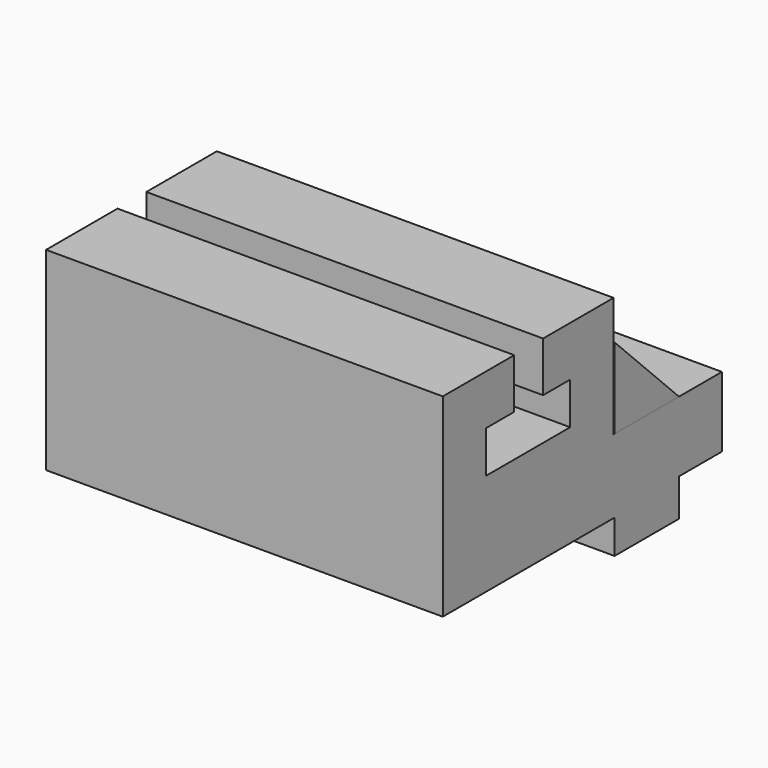
from build123d import *

# Parameters (mm, degrees)
F0_W      = 93.8783995807
F0_H      = 25.4507996142
F1_DEPTH  = 19.05
F2_W      = 93.5736000538
F2_H      = 16.6116002947
F3_DEPTH  = 12.7
F4_W      = 93.8783995807
F4_H      = 17.4526628107
F5_DEPTH  = 50.8
F7_DEPTH  = 93.98
F8_W      = 70.7135982811
F8_H      = 18.7452007085
F9_DEPTH  = 115.824
F10_DEPTH = 152.4
F11_DEPTH = 194.818
F12_W     = 93.8783995807
F12_H     = 50.4952002376
F13_DEPTH = 28.448
F15_DEPTH = 177.8
F16_R     = 8.857520503
F17_DEPTH = 127


with BuildPart() as f1:
    # F0 (on Front) → F1 (new body)
    with BuildSketch(Plane.XZ):
        with Locations((1.2191999704, -12.7253998071)):
            Rectangle(F0_W, F0_H)
    extrude(amount=F1_DEPTH)

    # F2 (on Front) → F3 (join)
    with BuildSketch(Plane.XZ):
        with Locations((1.3715997338, -8.3058001474)):
            Rectangle(F2_W, F2_H)
    extrude(amount=-F3_DEPTH)

    # F4 (on face) → F5 (join)
    with BuildSketch(Plane.XZ.offset(19.05)):
        with Locations((1.2191999704, -8.7263314053)):
            Rectangle(F4_W, F4_H)
    extrude(amount=F5_DEPTH)

    # F8 (on face) → F10 (cut)
    with BuildSketch(Plane(origin=(0, 12.7, 0), x_dir=(-1, 0, 0), z_dir=(0, 1, 0))):
        with Locations((-1.2191999704, 9.3726003543)):
            Rectangle(F8_W, F8_H)
    extrude(amount=-F10_DEPTH, mode=Mode.SUBTRACT)

    # F8 (on face) → F11 (cut)
    with BuildSketch(Plane(origin=(0, 12.7, 0), x_dir=(-1, 0, 0), z_dir=(0, 1, 0))):
        with Locations((-1.2191999704, 9.3726003543)):
            Rectangle(F8_W, F8_H)
    extrude(amount=-F11_DEPTH, mode=Mode.SUBTRACT)

    # F12 (on face) → F13 (join)
    with BuildSketch(Plane.XY):
        with Locations((1.2191999704, -44.6023998812)):
            Rectangle(F12_W, F12_H)
    extrude(amount=F13_DEPTH)

    # F14 (on face) → F15 (cut)
    with BuildSketch(Plane(origin=(-45.71999982, 0, 0), x_dir=(0, -1, 0), z_dir=(-1, 0, 0))):
        Polygon((32.178170979, 16.6333708912), (32.178170979, 6.705599837), (57.0846870542, 6.705599837), (57.0846870542, 16.6333708912), (48.7244576216, 16.6333708912), (48.7244576216, 28.448), (40.1900559664, 28.448), (40.1900559664, 16.6333708912), align=None)
    extrude(amount=-F15_DEPTH, mode=Mode.SUBTRACT)

    # F16 (on face) → F17 (cut)
    with BuildSketch(Plane.XY):
        with Locations((0, -2.3948573507)):
            Circle(F16_R)
    extrude(amount=-F17_DEPTH, mode=Mode.SUBTRACT)


with BuildPart() as f7:
    # F6 (on face) → F7 (new body)
    with BuildSketch(Plane.YZ.offset(48.1583997607)):
        Polygon((-19.05, 19.0500002354), (-19.05, 0), (0, 0), align=None)
    extrude(amount=-F7_DEPTH)

    # F8 (on face) → F9 (cut)
    with BuildSketch(Plane(origin=(0, 12.7, 0), x_dir=(-1, 0, 0), z_dir=(0, 1, 0))):
        with Locations((-1.2191999704, 9.3726003543)):
            Rectangle(F8_W, F8_H)
    extrude(amount=-F9_DEPTH, mode=Mode.SUBTRACT)


solid = Compound([f1.part, f7.part])
